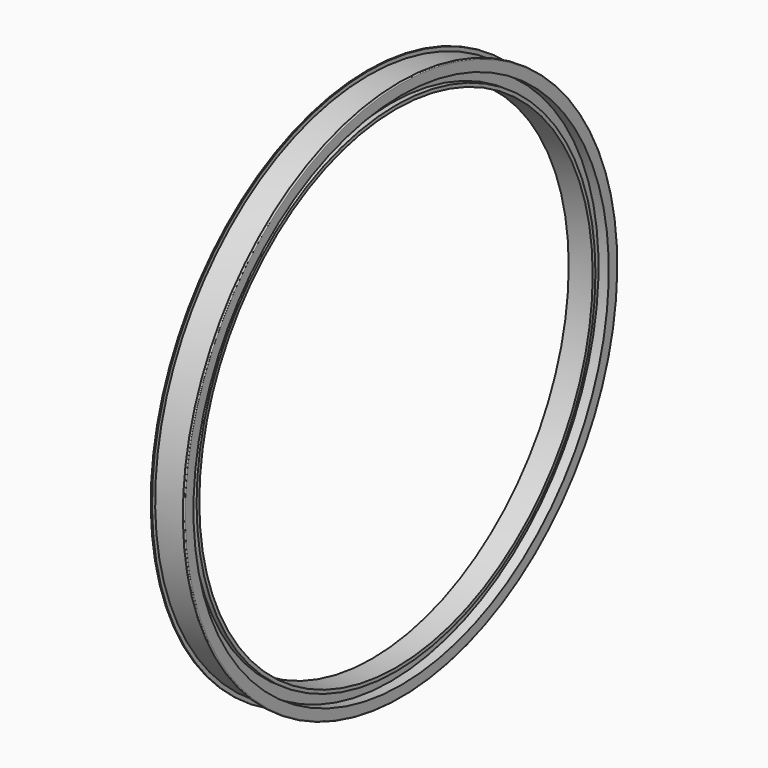
from build123d import *


with BuildPart() as f1:
    # F0 (on Front) → F1 (revolve)
    with BuildSketch(Plane.XZ):
        with BuildLine():
            Line((0, 61), (0, 0))
            Line((0, 0), (35, 0))
            Line((35, 0), (35, 10))
            Line((35, 10), (20, 10))
            Line((20, 10), (20, 40))
            Line((20, 40), (50, 40))
            Line((50, 40), (50, 70))
            ThreePointArc((50, 70), (49.267767, 71.767767), (47.5, 72.5))
            Line((47.5, 72.5), (45, 72.5))
            Line((45, 72.5), (45, 61))
            Line((45, 61), (0, 61))
        make_face()
        with BuildLine():
            Line((-35, 0), (0, 0))
            Line((0, 0), (0, 61))
            Line((0, 61), (-45, 61))
            Line((-45, 61), (-45, 72.5))
            Line((-45, 72.5), (-47.5, 72.5))
            ThreePointArc((-47.5, 72.5), (-49.267767, 71.767767), (-50, 70))
            Line((-50, 70), (-50, 40))
            Line((-50, 40), (-20, 40))
            Line((-20, 40), (-20, 10))
            Line((-20, 10), (-35, 10))
            Line((-35, 10), (-35, 0))
        make_face()
    revolve(axis=Axis((25.468834, 0, -717.5), (1, 0, 0)))


solid = f1.part
